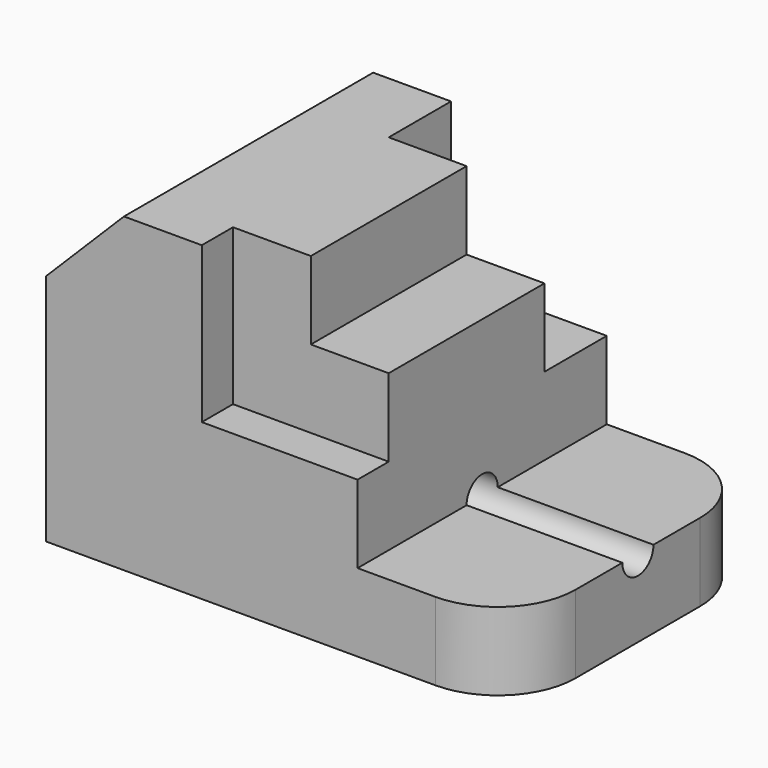
from build123d import *

# Parameters (mm, degrees)
F1_DEPTH = 50.8
F3_DEPTH = 6.35
F5_DEPTH = 12.7
F7_DEPTH = 76.2
F8_R     = 12.7


with BuildPart() as f1:
    # F0 (on Front) → F1 (new body)
    with BuildSketch(Plane.XZ):
        Polygon((0, 38.1), (0, 0), (76.2, 0), (76.2, 12.7), (50.8, 12.7), (50.8, 38.1), (38.1, 38.1), (38.1, 50.8), (12.7, 50.8), align=None)
    extrude(amount=F1_DEPTH)

    # F2 (on face) → F3 (cut, symmetric)
    with BuildSketch(Plane.XZ.offset(50.8)):
        Polygon((38.1, 50.8), (25.4, 50.8), (25.4, 25.4), (50.8, 25.4), (50.8, 38.1), (38.1, 38.1), align=None)
    extrude(amount=F3_DEPTH, both=True, mode=Mode.SUBTRACT)

    # F4 (on face) → F5 (cut)
    with BuildSketch(Plane(origin=(0, 0, 0), x_dir=(-1, 0, 0), z_dir=(0, 1, 0))):
        Polygon((-25.4, 25.4), (-25.4, 50.8), (-38.1, 50.8), (-38.1, 38.1), (-50.8, 38.1), (-50.8, 25.4), align=None)
    extrude(amount=-F5_DEPTH, mode=Mode.SUBTRACT)

    # F6 (on face) → F7 (cut)
    with BuildSketch(Plane.YZ.offset(76.2)):
        with BuildLine():
            Line((-28.575, 12.7), (-22.225, 12.7))
            ThreePointArc((-22.225, 12.7), (-25.4, 15.875), (-28.575, 12.7))
        make_face()
        with BuildLine():
            ThreePointArc((-28.575, 12.7), (-25.4, 9.525), (-22.225, 12.7))
            Line((-22.225, 12.7), (-28.575, 12.7))
        make_face()
    extrude(amount=-F7_DEPTH, mode=Mode.SUBTRACT)

    # F8
    f8_edges = [f1.edges().sort_by_distance(p)[0] for p in [
        (76.2, -50.8, 6.35),
        (76.2, 0, 6.35),
    ]]
    fillet(f8_edges, radius=F8_R)


solid = f1.part
